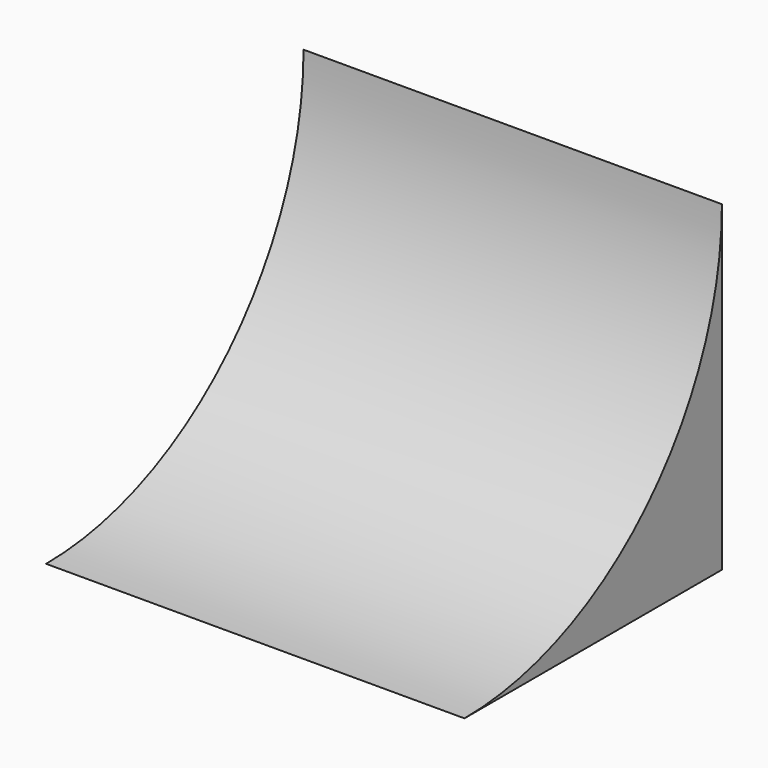
from build123d import *

# Parameters (mm, degrees)
CIRCLE008_R        = 5
EXTRUSION037_DEPTH = 6.500001
RECTANGLE020_W     = 5
RECTANGLE020_H     = 5
EXTRUSION036_DEPTH = 6.500001


with BuildPart() as extrusion037:
    # Circle008 (on Extrusion) → Extrusion037 (new body)
    with BuildSketch(Plane(origin=(-761.714853, -17.774575, 1.366052), x_dir=(0, -1, 0), z_dir=(-1, 0, 0))):
        Circle(CIRCLE008_R)
    extrude(amount=-EXTRUSION037_DEPTH)


with BuildPart() as cut004006005004002008019023005025018:
    # Rectangle020 (on Cut) → Extrusion036 (new body)
    with BuildSketch(Plane(origin=(-755.214852, -17.774575, -3.633948), x_dir=(0, 1, 0), z_dir=(1, 0, 0))):
        with Locations((2.5, 2.5)):
            Rectangle(RECTANGLE020_W, RECTANGLE020_H)
    extrude(amount=-EXTRUSION036_DEPTH)

    # Cut004006005004002008019023005025018: cut Extrusion037
    add(extrusion037.part, mode=Mode.SUBTRACT)


solid = cut004006005004002008019023005025018.part
